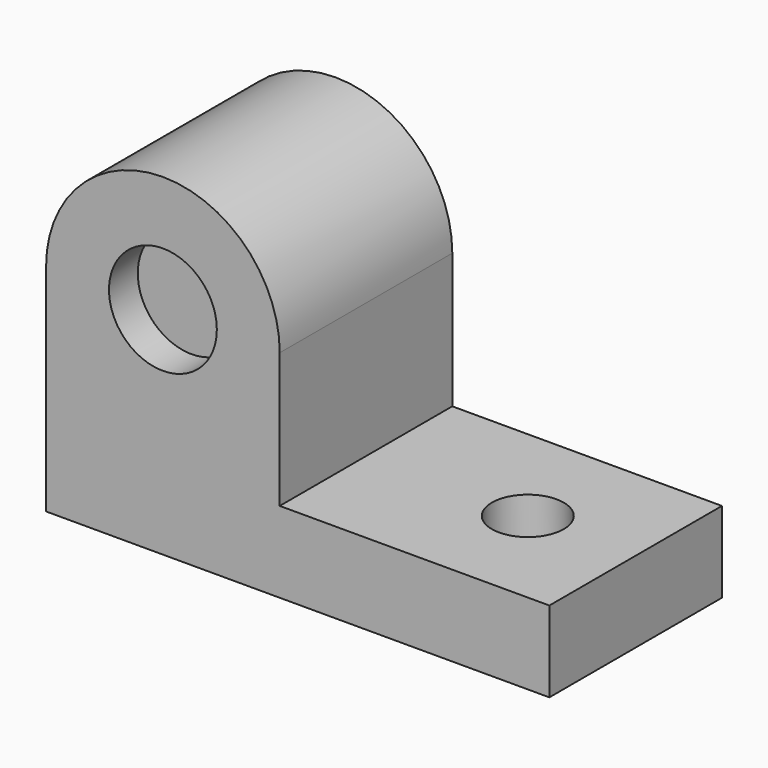
from build123d import *

# Parameters (mm, degrees)
F1_DEPTH = 76.2
F2_R     = 19.05
F3_DEPTH = 12.7
F4_DEPTH = 76.2
F5_R     = 12.7
F6_DEPTH = 25374.6


with BuildPart() as f1:
    # F0 (on Front) → F1 (new body)
    with BuildSketch(Plane.XZ):
        Polygon((0, 155.575), (0, 0), (177.8, 0), (177.8, 28.575), (82.55, 28.575), (82.55, 155.575), align=None)
    extrude(amount=F1_DEPTH)

    # F2 (on face) → F3 (cut)
    with BuildSketch(Plane.XZ.offset(76.2)):
        with Locations((41.275, 76.2)):
            Circle(F2_R)
    extrude(amount=-F3_DEPTH, mode=Mode.SUBTRACT)

    # F2 (on face) → F4 (cut)
    with BuildSketch(Plane.XZ.offset(76.2)):
        with BuildLine():
            Line((0, 155.575), (0, 76.2))
            ThreePointArc((0, 76.2), (41.275, 117.475), (82.55, 76.2))
            Line((82.55, 76.2), (82.55, 155.575))
            Line((82.55, 155.575), (0, 155.575))
        make_face()
    extrude(amount=-F4_DEPTH, mode=Mode.SUBTRACT)

    # F5 (on face) → F6 (cut)
    with BuildSketch(Plane.XY.offset(28.575)):
        with Locations((139.7, -38.1)):
            Circle(F5_R)
    extrude(amount=-F6_DEPTH, mode=Mode.SUBTRACT)


solid = f1.part
